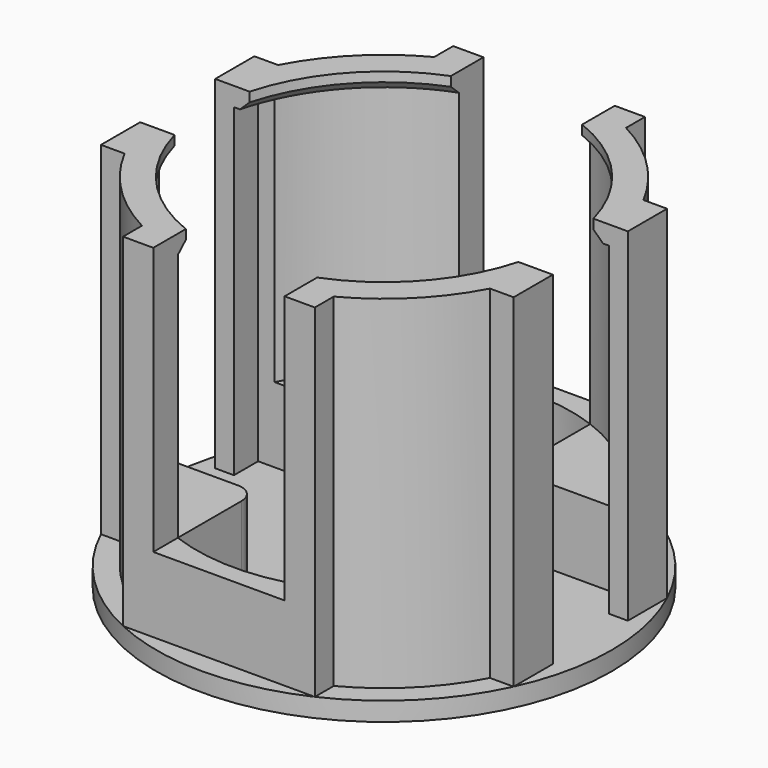
from build123d import *

# Parameters (mm, degrees)
PAD_DEPTH       = 36.55
SKETCH001_R     = 24.260062
PAD001_DEPTH    = 2
PAD002_DEPTH    = 8
PAD003_START    = 34.55
SKETCH005_R     = 22
SKETCH005_R_2   = 19
PAD003_DEPTH    = 2
SKETCH002_W     = 60
SKETCH002_H     = 10
POCKET002_DEPTH = 36.551
POCKET003_START = 8
SKETCH003_W     = 14
SKETCH003_H     = 60
POCKET003_DEPTH = 52
CHAMFER_SIZE    = 0.99


with BuildPart() as part:
    # Sketch → Pad (new body)
    with BuildSketch(Plane.XY):
        with BuildLine():
            Line((19.47946, 10.225), (22, 10.225))
            Line((22, 10.225), (22, -10.225))
            Line((22, -10.225), (19.47946, -10.225))
            ThreePointArc((10.225, -19.47946), (15.556349, -15.556349), (19.47946, -10.225))
            Line((10.225, -22), (10.225, -19.47946))
            Line((-10.225, -22), (10.225, -22))
            Line((-10.225, -19.47946), (-10.225, -22))
            ThreePointArc((-19.47946, -10.225), (-15.556349, -15.556349), (-10.225, -19.47946))
            Line((-22, -10.225), (-19.47946, -10.225))
            Line((-22, 10.225), (-22, -10.225))
            Line((-19.47946, 10.225), (-22, 10.225))
            ThreePointArc((-10.225, 19.47946), (-15.556349, 15.556349), (-19.47946, 10.225))
            Line((-10.225, 19.47946), (-10.225, 22))
            Line((-10.225, 22), (10.225, 22))
            Line((10.225, 22), (10.225, 19.47946))
            ThreePointArc((19.47946, 10.225), (15.556349, 15.556349), (10.225, 19.47946))
        make_face()
        with BuildLine():
            Line((-20, 0), (-20, 8.225))
            Line((-20, 8.225), (-18.230452, 8.225))
            ThreePointArc((18.230452, 8.225), (0, 20), (-18.230452, 8.225))
            Line((18.230452, 8.225), (20, 8.225))
            Line((20, 8.225), (20, 0.000241))
            Line((20, 0.000241), (20, -8.224518))
            Line((20, -8.224518), (18.230669, -8.224518))
            ThreePointArc((-18.230452, -8.225), (0.000264, -20), (18.230669, -8.224518))
            Line((-20, -8.225), (-18.230452, -8.225))
            Line((-20, 0), (-20, -8.225))
        make_face(mode=Mode.SUBTRACT)
    extrude(amount=PAD_DEPTH)

    # Sketch001 → Pad001 (join)
    with BuildSketch(Plane.XY):
        Circle(SKETCH001_R)
    extrude(amount=-PAD001_DEPTH)

    # Sketch004 → Pad002 (join)
    with BuildSketch(Plane.XY):
        with BuildLine():
            ThreePointArc((-7, 18.734994), (-13.665977, 14.602776), (-18.230452, 8.225))
            Line((-18.230452, 8.225), (-9, 8.225))
            ThreePointArc((-9, 8.225), (-7.585786, 8.810786), (-7, 10.225))
            Line((-7, 10.225), (-7, 18.734994))
        make_face()
        with BuildLine():
            ThreePointArc((18.230452, 8.225), (13.665977, 14.602776), (7, 18.734994))
            Line((7, 18.734994), (7, 10.225))
            ThreePointArc((7, 10.225), (7.585786, 8.810786), (9, 8.225))
            Line((9, 8.225), (18.230452, 8.225))
        make_face()
        with BuildLine():
            ThreePointArc((7, -18.734994), (13.66617, -14.602596), (18.230669, -8.224518))
            Line((18.230669, -8.224518), (9, -8.224518))
            ThreePointArc((9, -8.224518), (7.585786, -8.810305), (7, -10.224518))
            Line((7, -10.224518), (7, -18.734994))
        make_face()
        with BuildLine():
            ThreePointArc((-18.230452, -8.225), (-13.665977, -14.602776), (-7, -18.734994))
            Line((-7, -18.734994), (-7, -10.225))
            ThreePointArc((-7, -10.225), (-7.585786, -8.810786), (-9, -8.225))
            Line((-9, -8.225), (-18.230452, -8.225))
        make_face()
    extrude(amount=PAD002_DEPTH)

    # Sketch005 → Pad003 (join)
    with BuildSketch(Plane.XY.offset(PAD003_START)):
        Circle(SKETCH005_R)
        Circle(SKETCH005_R_2, mode=Mode.SUBTRACT)
    extrude(amount=PAD003_DEPTH)

    # Sketch002 → Pocket002 (cut, through all)
    with BuildSketch(Plane.XY):
        Rectangle(SKETCH002_W, SKETCH002_H)
    extrude(amount=POCKET002_DEPTH, mode=Mode.SUBTRACT)

    # Sketch003 → Pocket003 (cut)
    with BuildSketch(Plane.XY.offset(POCKET003_START)):
        Rectangle(SKETCH003_W, SKETCH003_H)
    extrude(amount=POCKET003_DEPTH, mode=Mode.SUBTRACT)

    # Chamfer
    chamfer_edges = [part.edges().sort_by_distance(p)[0] for p in [
        (-14.159705, 12.668968, 34.55),
        (-14.159705, -12.668968, 34.55),
        (14.159705, 12.668968, 34.55),
        (14.159705, -12.668968, 34.55),
    ]]
    chamfer(chamfer_edges, length=CHAMFER_SIZE)


solid = part.part
